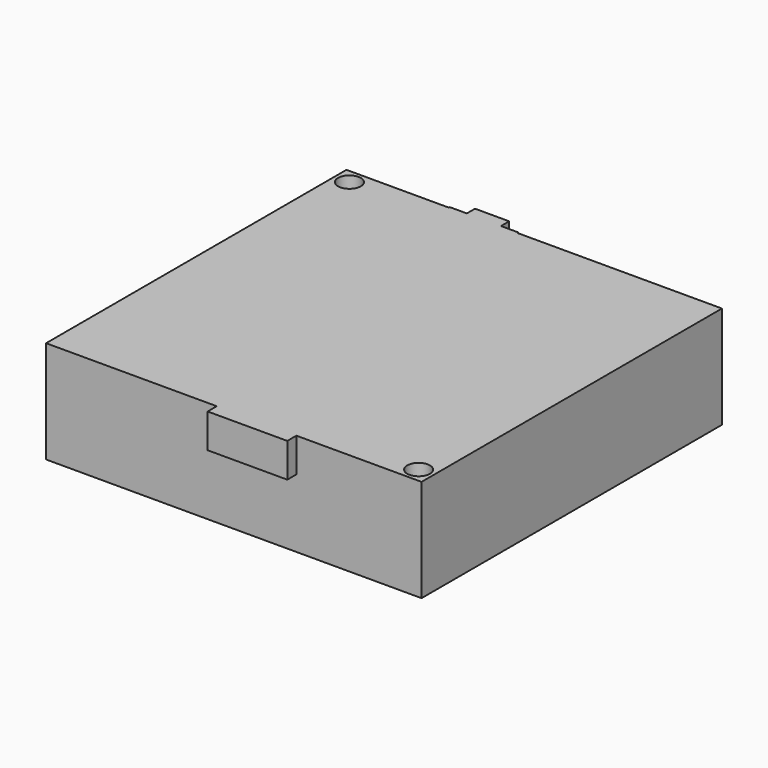
from build123d import *

# Parameters (mm, degrees)
F0_W     = 33
F0_H     = 33
F1_DEPTH = 9
F2_W     = 3
F2_H     = 0.9
F2_W_2   = 7
F2_H_2   = 7.583788
F3_DEPTH = 3
F4_R     = 5
F5_DEPTH = 2
F6_R     = 1
F7_DEPTH = 25


with BuildPart() as f1:
    # F0 (on Top) → F1 (new body)
    with BuildSketch(Plane.XY):
        Rectangle(F0_W, F0_H)
    extrude(amount=F1_DEPTH)

    # F2 (on face) → F3 (join)
    with BuildSketch(Plane.XY.offset(9)):
        Polygon((-7.5, 16.6), (-7.5, 16.5), (-1.5, 16.5), (-1.5, 16.6), (-3, 16.6), (-6, 16.6), align=None)
        with Locations((-4.5, 17.05)):
            Rectangle(F2_W, F2_H)
        with Locations((2, -13.708106)):
            Rectangle(F2_W_2, F2_H_2)
    extrude(amount=-F3_DEPTH)

    # F4 (on face) → F5 (join)
    with BuildSketch(Plane(origin=(0, 0, 0), x_dir=(1, 0, 0), z_dir=(0, 0, -1))):
        with Locations((-8.5, -3.5)):
            Circle(F4_R)
    extrude(amount=F5_DEPTH)

    # F6 (on face) → F7 (cut)
    with BuildSketch(Plane(origin=(0, 0, 0), x_dir=(1, 0, 0), z_dir=(0, 0, -1))):
        with Locations((-15.2, -15.2)):
            Circle(F6_R)
        with Locations((15.2, 15.2)):
            Circle(F6_R)
    extrude(amount=-F7_DEPTH, mode=Mode.SUBTRACT)


solid = f1.part
